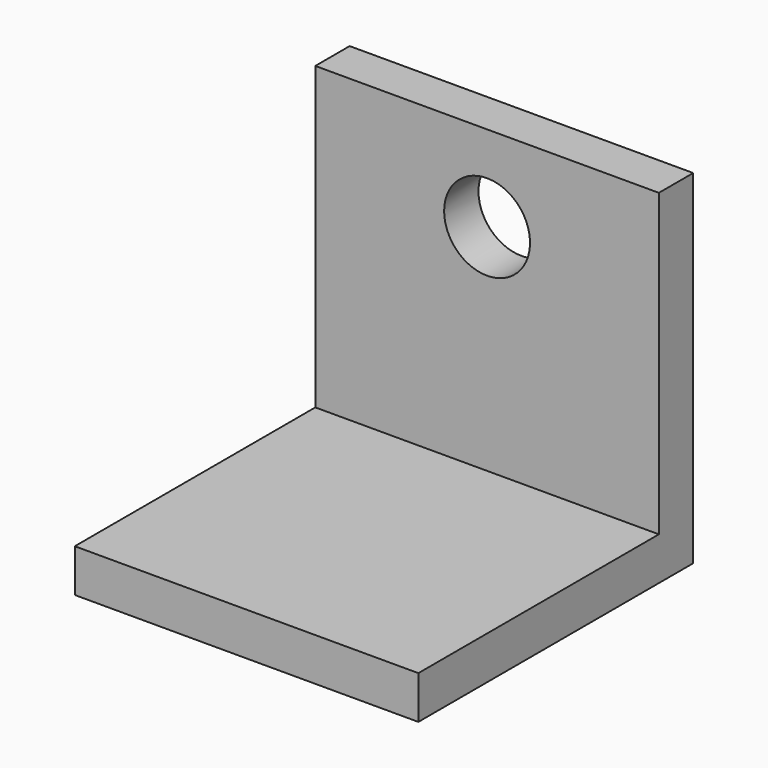
from build123d import *

# Parameters (mm, degrees)
F1_DEPTH = 25.4
F3_D     = 12.7


with BuildPart() as f1:
    # F0 (on Right) → F1 (new body, symmetric)
    with BuildSketch(Plane.YZ):
        Polygon((-50.8, 6.35), (-50.8, 0), (0, 0), (0, 50.8), (-6.35, 50.8), (-6.35, 6.35), align=None)
    extrude(amount=F1_DEPTH, both=True)

    # F3 (through all)
    with Locations(Plane.XZ.offset(6.35)):
        with Locations((0, 38.1)):
            Hole(F3_D / 2)


solid = f1.part
